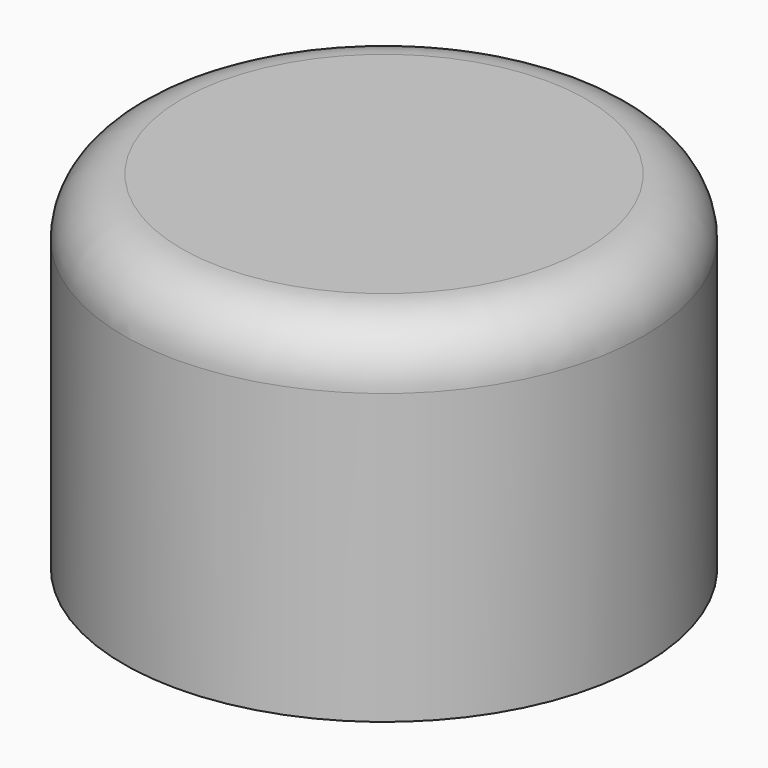
from build123d import *

# Parameters (mm, degrees)
CYLINDER020_R     = 3.5
CYLINDER020_DEPTH = 6
CYLINDER016_R     = 6
CYLINDER016_DEPTH = 4
CYLINDER014_R     = 9
CYLINDER014_DEPTH = 12
FILLET015_R       = 2


with BuildPart() as knob_cut002:
    # Cylinder020 → Cylinder020 (new body)
    with BuildSketch(Plane.XY.offset(10)):
        Circle(CYLINDER020_R)
    extrude(amount=CYLINDER020_DEPTH)


with BuildPart() as knob_cut:
    # Cylinder016 → Cylinder016 (new body)
    with BuildSketch(Plane.XY.offset(6)):
        Circle(CYLINDER016_R)
    extrude(amount=CYLINDER016_DEPTH)


with BuildPart() as knob004:
    # Cylinder014 → Cylinder014 (new body)
    with BuildSketch(Plane.XY.offset(6)):
        Circle(CYLINDER014_R)
    extrude(amount=CYLINDER014_DEPTH)

    # Cut029: cut KNOB_cut
    add(knob_cut.part, mode=Mode.SUBTRACT)

    # Cut030: cut KNOB_cut002
    add(knob_cut002.part, mode=Mode.SUBTRACT)

    # Fillet015
    fillet015_edges = [knob004.edges().sort_by_distance(p)[0] for p in [
        (-9, 0, 18),
    ]]
    fillet(fillet015_edges, radius=FILLET015_R)


solid = knob004.part
